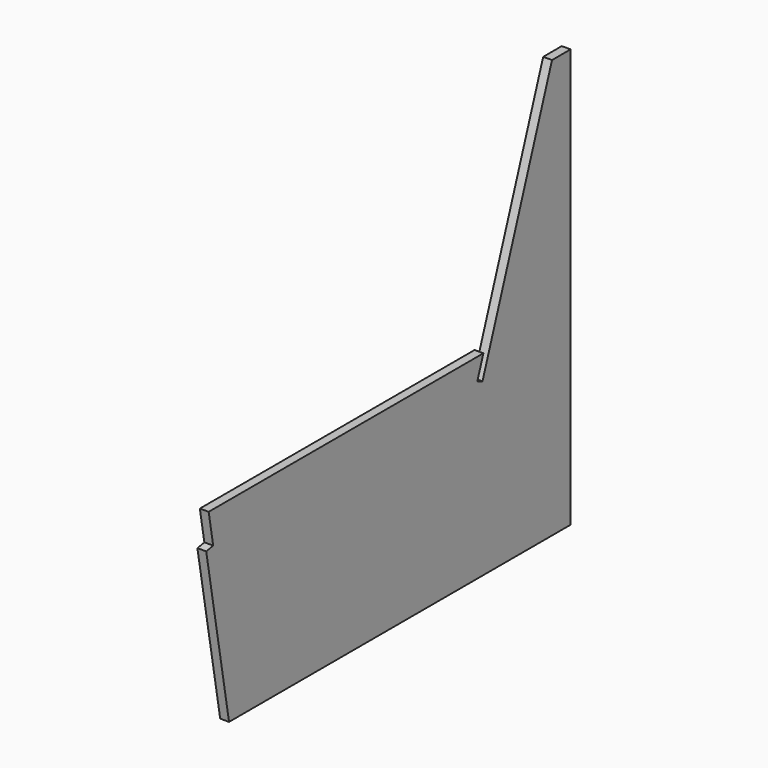
from build123d import *

# Parameters (mm, degrees)
F1_DEPTH = 9.5
F3_DEPTH = 19.001


with BuildPart() as f1:
    # F0 (on Right) → F1 (new body, symmetric)
    with BuildSketch(Plane.YZ):
        Polygon((-979.431147, 420), (-979.431147, 0), (0, 0), (0, 900), (-50, 900), (-236.842401, 367.854187), (-250.995365, 372.823452), (-234.431147, 420), align=None)
    extrude(amount=F1_DEPTH, both=True)

    # F2 (on face) → F3 (cut, through all)
    with BuildSketch(Plane(origin=(-9.5, 0, 0), x_dir=(0, -1, 0), z_dir=(-1, 0, 0))):
        Polygon((979.431147, 0), (979.431147, 347.764142), (918.110946, 0), align=None)
        Polygon((960.719799, 351.063457), (979.431147, 347.764142), (979.431147, 420), (972.875172, 420), align=None)
    extrude(amount=-F3_DEPTH, mode=Mode.SUBTRACT)


solid = f1.part
